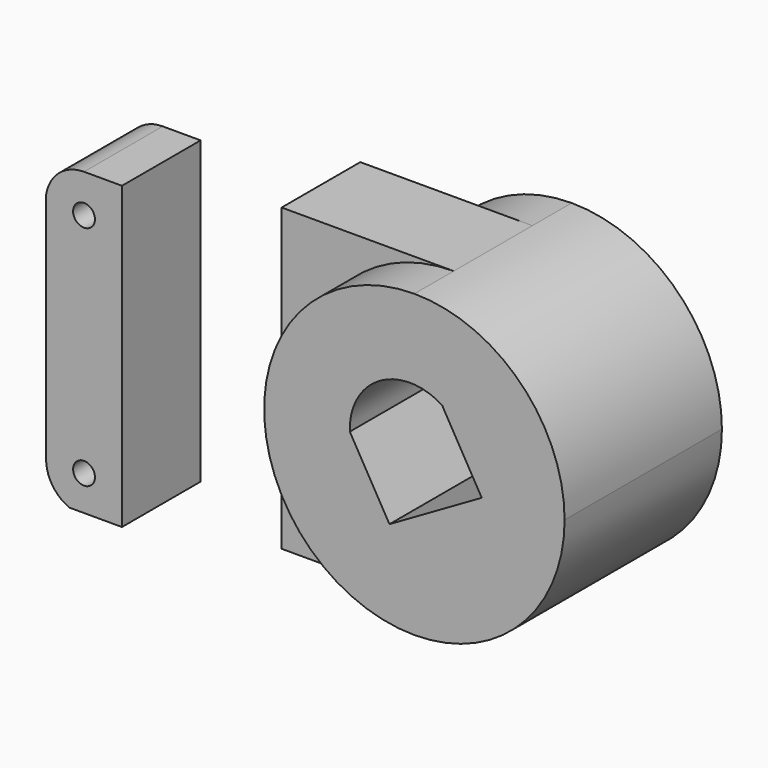
from build123d import *

# Parameters (mm, degrees)
F1_DEPTH      = 18
F2_D          = 4
F3_DEPTH      = 18
F3_DEPTH_BACK = 18
F4_DEPTH      = 9
F4_DEPTH_BACK = 9


with BuildPart() as f1:
    # F0 (on Front) → F1 (new body)
    with BuildSketch(Plane.XZ):
        with BuildLine():
            Line((-9.2657440613, -27.6382645078), (-9.2657440613, 27.3617354922))
            Line((-9.2657440613, 27.3617354922), (-16.2107785353, 27.3617354922))
            ThreePointArc((-16.2107785353, 27.3617354922), (-20.8049267476, 25.6486528507), (-23.1558130092, 21.3458417093))
            Line((-23.1558130092, 21.3458417093), (-23.1558130092, -21.2262201912))
            ThreePointArc((-23.1558130092, -21.2262201912), (-21.9884821339, -25.0799929513), (-18.8789045899, -27.6382645078))
            Line((-18.8789045899, -27.6382645078), (-9.2657440613, -27.6382645078))
        make_face()
    extrude(amount=F1_DEPTH)

    # F2 (through all)
    with Locations(Plane(origin=(0, 0, 0), x_dir=(1, 0, 0), z_dir=(0, 1, 0))):
        with Locations((-16.2108130092, -20.3449890159), (-16.2108130092, 21.2262201912)):
            Hole(F2_D / 2)


with BuildPart() as f3:
    # F0 (on Front) → F3 (new body, two sides)
    with BuildSketch(Plane.XZ) as f3_sk:
        with BuildLine():
            ThreePointArc((71.7645256658, -0.1382645078), (63.7099621485, 19.3071719749), (44.2645256658, 27.3617354922))
            ThreePointArc((44.2645256658, 27.3617354922), (16.7645256658, -0.1382645078), (44.2645256658, -27.6382645078))
            ThreePointArc((44.2645256658, -27.6382645078), (63.7099621485, -19.5837009904), (71.7645256658, -0.1382645078))
        make_face()
        with BuildLine():
            Line((49.3394077535, 11.0536389664), (56.5894077535, -1.5037293885))
            Line((56.5894077535, -1.5037293885), (39.7019123797, -11.2537293885))
            Line((39.7019123797, -11.2537293885), (32.4519123797, 1.3036389664))
            ThreePointArc((32.4519123797, 1.3036389664), (37.942103665, 11.2943487169), (49.3394077535, 11.0536389664))
        make_face(mode=Mode.SUBTRACT)
    extrude(amount=F3_DEPTH)
    extrude(f3_sk.sketch, amount=-F3_DEPTH_BACK)

    # F0 (on Front) → F4 (join, two sides)
    with BuildSketch(Plane.XZ) as f4_sk:
        with BuildLine():
            ThreePointArc((44.2645256658, -27.6382645078), (16.7645256658, -0.1382645078), (44.2645256658, 27.3617354922))
            Line((44.2645256658, 27.3617354922), (12.7645256658, 27.3617354922))
            Line((12.7645256658, 27.3617354922), (12.7645256658, -27.6382645078))
            Line((12.7645256658, -27.6382645078), (44.2645256658, -27.6382645078))
        make_face()
    extrude(amount=F4_DEPTH)
    extrude(f4_sk.sketch, amount=-F4_DEPTH_BACK)


solid = Compound([f1.part, f3.part])
